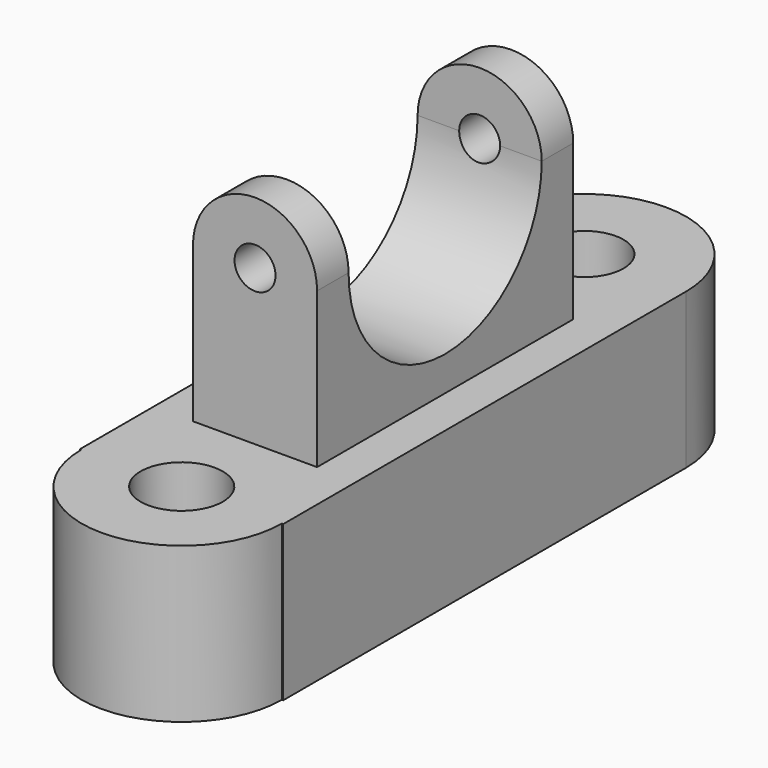
from build123d import *

# Parameters (mm, degrees)
F0_W      = 33.25091
F0_H      = 82.434542
F3_DEPTH  = 25.4
F1_R      = 16.625455
F4_DEPTH  = 25.4
F2_R      = 16.394546
F5_DEPTH  = 25.4
F6_R      = 6.38663
F6_R_2    = 6.732099
F7_DEPTH  = 25.401
F8_W      = 20.32
F8_H      = 52.416362
F9_DEPTH  = 50.8
F11_DEPTH = 26.786455
F12_W     = 10.16
F12_H     = 6.445338
F14_W     = 10.16
F14_H     = 6.445338
F16_R     = 3.356131
F17_DEPTH = 84.051907


with BuildPart() as f3:
    # F0 (on Top) → F3 (new body)
    with BuildSketch(Plane.XY):
        Rectangle(F0_W, F0_H)
    extrude(amount=F3_DEPTH)

    # F1 (on Top) → F4 (join)
    with BuildSketch(Plane.XY):
        with Locations((0, 41.217271)):
            Circle(F1_R)
    extrude(amount=F4_DEPTH)

    # F2 (on Top) → F5 (join)
    with BuildSketch(Plane.XY):
        with Locations((0, -41.217271)):
            Circle(F2_R)
    extrude(amount=F5_DEPTH)

    # F6 (on face) → F7 (cut, through all)
    with BuildSketch(Plane.XY.offset(25.4)):
        with Locations((0, 41.217271)):
            Circle(F6_R)
        with Locations((0, -41.217271)):
            Circle(F6_R_2)
    extrude(amount=-F7_DEPTH, mode=Mode.SUBTRACT)

    # F8 (on Top) → F9 (join)
    with BuildSketch(Plane.XY):
        Rectangle(F8_W, F8_H)
    extrude(amount=F9_DEPTH)

    # F10 (on face) → F11 (cut, through all)
    with BuildSketch(Plane.YZ.offset(10.16)):
        with BuildLine():
            Line((-19.762843, 50.8), (19.762843, 50.8))
            ThreePointArc((19.762843, 50.8), (0, 70.562843), (-19.762843, 50.8))
        make_face()
        with BuildLine():
            ThreePointArc((-19.762843, 50.8), (0, 31.037157), (19.762843, 50.8))
            Line((19.762843, 50.8), (-19.762843, 50.8))
        make_face()
    extrude(amount=-F11_DEPTH, mode=Mode.SUBTRACT)

    # F12 (on face) → F13 (revolve)
    with BuildSketch(Plane.XY.offset(50.8)):
        with Locations((5.08, 22.985512)):
            Rectangle(F12_W, F12_H)
    revolve(axis=Axis((0, 22.985512, 50.8), (0, -1, 0)))

    # F14 (on face) → F15 (revolve)
    with BuildSketch(Plane.XY.offset(50.8)):
        with Locations((-5.08, -22.985512)):
            Rectangle(F14_W, F14_H)
    revolve(axis=Axis((0, -22.985512, 50.8), (0, 1, 0)))

    # F16 (on face) → F17 (cut, through all)
    with BuildSketch(Plane.XZ.offset(26.208181)):
        with Locations((0, 50.8)):
            Circle(F16_R)
    extrude(amount=-F17_DEPTH, mode=Mode.SUBTRACT)


solid = f3.part
